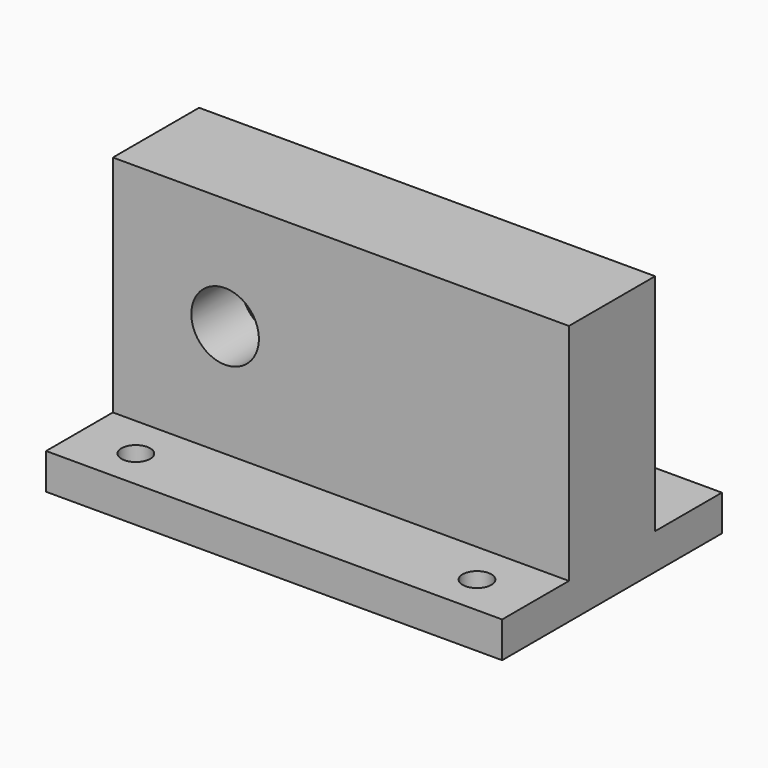
from build123d import *

# Parameters (mm, degrees)
SKETCH067_W     = 50.8
SKETCH067_H     = 30.6
PAD014_DEPTH    = 4
SKETCH068_R     = 1.6
POCKET061_DEPTH = 4.001
SKETCH069_W     = 50.8
SKETCH069_H     = 12
PAD015_DEPTH    = 25
SKETCH070_R     = 4.85
POCKET062_DEPTH = 5
SKETCH071_R     = 3.7625
POCKET063_DEPTH = 16.301
SKETCH072_R     = 2.8
POCKET064_DEPTH = 5


with BuildPart() as part:
    # Sketch067 → Pad014 (new body)
    with BuildSketch(Plane.XY):
        Rectangle(SKETCH067_W, SKETCH067_H)
    extrude(amount=PAD014_DEPTH)

    # Sketch068 (on Face6 of Pad014) → Pocket061 (cut, through all)
    with BuildSketch(Plane.XY.offset(4)):
        with Locations((19, 10.8)):
            Circle(SKETCH068_R)
        with Locations((19, -10.8)):
            Circle(SKETCH068_R)
        with Locations((-19, -10.8)):
            Circle(SKETCH068_R)
        with Locations((-19, 10.8)):
            Circle(SKETCH068_R)
    extrude(amount=-POCKET061_DEPTH, mode=Mode.SUBTRACT)

    # Sketch069 (on Face5 of Pocket061) → Pad015 (join)
    with BuildSketch(Plane.XY.offset(4)):
        Rectangle(SKETCH069_W, SKETCH069_H)
    extrude(amount=PAD015_DEPTH)

    # Sketch070 (on Face13 of Pad015) → Pocket062 (cut)
    with BuildSketch(Plane(origin=(0, 6, 0), x_dir=(-1, 0, 0), z_dir=(0, 1, 0))):
        with Locations((12.9, 16.5)):
            Circle(SKETCH070_R)
    extrude(amount=-POCKET062_DEPTH, mode=Mode.SUBTRACT)

    # Sketch071 (on Face18 of Pocket062) → Pocket063 (cut, through all)
    with BuildSketch(Plane(origin=(0, 1, 0), x_dir=(-1, 0, 0), z_dir=(0, 1, 0))):
        with Locations((12.9, 16.5)):
            Circle(SKETCH071_R)
    extrude(amount=-POCKET063_DEPTH, mode=Mode.SUBTRACT)

    # Sketch072 → Pocket064 (cut)
    with BuildSketch(Plane(origin=(0, 6, 0), x_dir=(-1, 0, 0), z_dir=(0, 1, 0))):
        with Locations((-20, 16.5)):
            Circle(SKETCH072_R)
    extrude(amount=-POCKET064_DEPTH, mode=Mode.SUBTRACT)


solid = part.part
